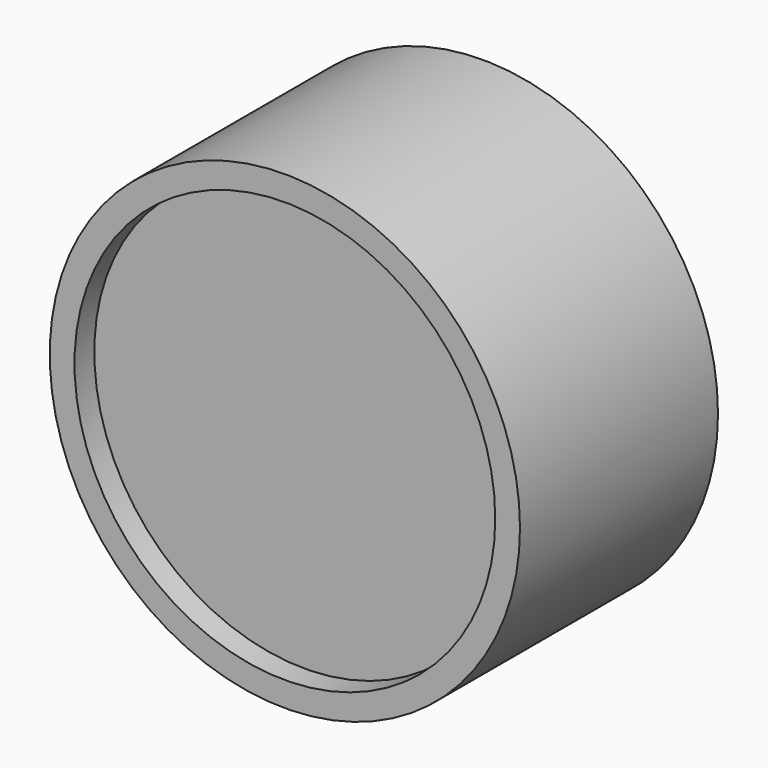
from build123d import *

# Parameters (mm, degrees)
F0_R     = 12.065
F1_DEPTH = 12.7
F3_R     = 10.795
F4_DEPTH = 1.27


with BuildPart() as f1:
    # F0 (on Front) → F1 (new body)
    with BuildSketch(Plane.XZ):
        Circle(F0_R)
    extrude(amount=F1_DEPTH)

    # F3 (on offset) → F4 (cut)
    with BuildSketch(Plane.XZ.offset(12.7)):
        Circle(F3_R)
    extrude(amount=-F4_DEPTH, mode=Mode.SUBTRACT)


solid = f1.part
